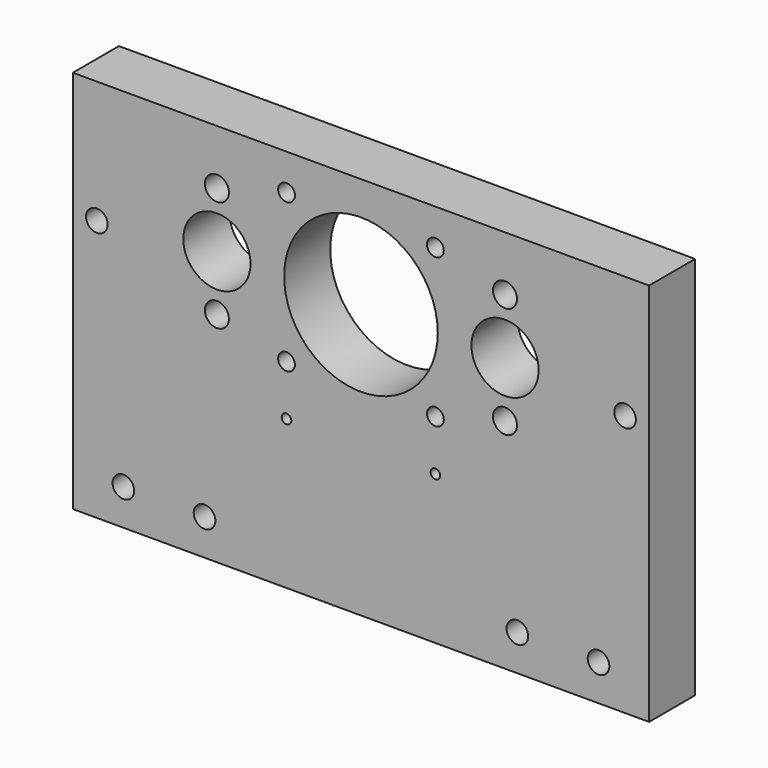
from build123d import *

# Parameters (mm, degrees)
SKETCH_W      = 120
SKETCH_H      = 12
PAD_DEPTH     = 80
SKETCH001_R   = 2.25
SKETCH001_R_2 = 7
SKETCH001_R_3 = 16
SKETCH001_R_4 = 1.75
SKETCH001_R_5 = 2.5
SKETCH001_R_6 = 1
POCKET_DEPTH  = 12.001


with BuildPart() as part:
    # Sketch → Pad (new body)
    with BuildSketch(Plane.XY):
        Rectangle(SKETCH_W, SKETCH_H)
    extrude(amount=PAD_DEPTH)

    # Sketch001 → Pocket (cut, through all)
    with BuildSketch(Plane.XZ.offset(6)):
        with Locations((-49.475, 7.5)):
            Circle(SKETCH001_R)
        with Locations((-32.575, 7.5)):
            Circle(SKETCH001_R)
        with Locations((32.575, 7.5)):
            Circle(SKETCH001_R)
        with Locations((49.475, 7.5)):
            Circle(SKETCH001_R)
        with Locations((-30, 57)):
            Circle(SKETCH001_R_2)
        with Locations((30, 57)):
            Circle(SKETCH001_R_2)
        with Locations((0, 57)):
            Circle(SKETCH001_R_3)
        with Locations((-15.5, 72.5)):
            Circle(SKETCH001_R_4)
        with Locations((-15.5, 41.5)):
            Circle(SKETCH001_R_4)
        with Locations((15.5, 41.5)):
            Circle(SKETCH001_R_4)
        with Locations((15.5, 72.5)):
            Circle(SKETCH001_R_4)
        with Locations((-30, 68.575)):
            Circle(SKETCH001_R_5)
        with Locations((-30, 45.425)):
            Circle(SKETCH001_R_5)
        with Locations((30, 68.575)):
            Circle(SKETCH001_R_5)
        with Locations((30, 45.425)):
            Circle(SKETCH001_R_5)
        with Locations((-55, 54.5)):
            Circle(SKETCH001_R)
        with Locations((55, 54.5)):
            Circle(SKETCH001_R)
        with Locations((-15.5, 31)):
            Circle(SKETCH001_R_6)
        with Locations((15.5, 31)):
            Circle(SKETCH001_R_6)
    extrude(amount=-POCKET_DEPTH, mode=Mode.SUBTRACT)


solid = part.part
